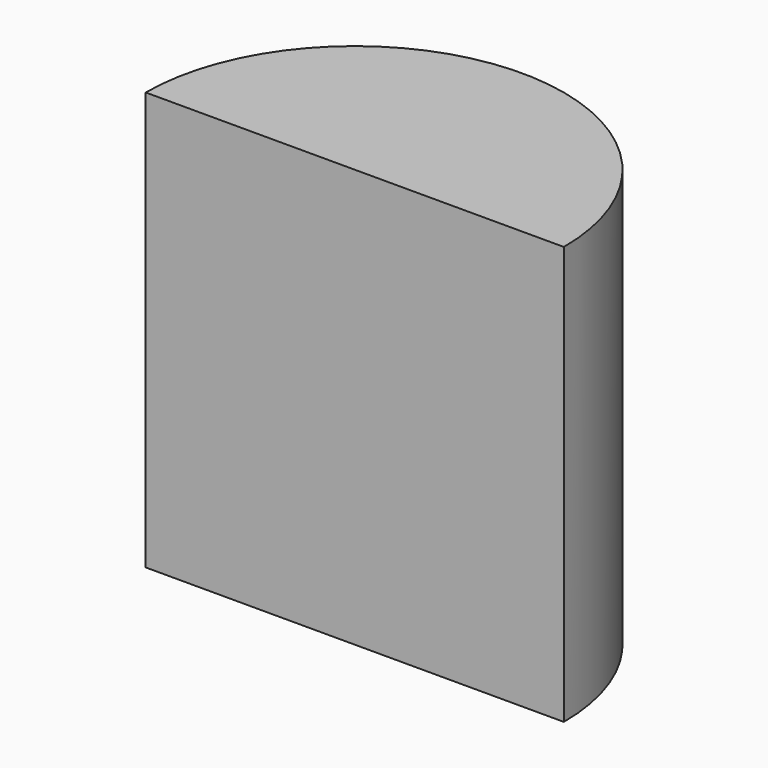
from build123d import *

# Parameters (mm, degrees)
F1_DEPTH = 25.4


with BuildPart() as f1:
    # F0 (on Top) → F1 (new body, symmetric)
    with BuildSketch(Plane.XY):
        with BuildLine():
            Line((-25.4, 0), (25.4, 0))
            ThreePointArc((25.4, 0), (0, 25.4), (-25.4, 0))
        make_face()
    extrude(amount=F1_DEPTH, both=True)


solid = f1.part
